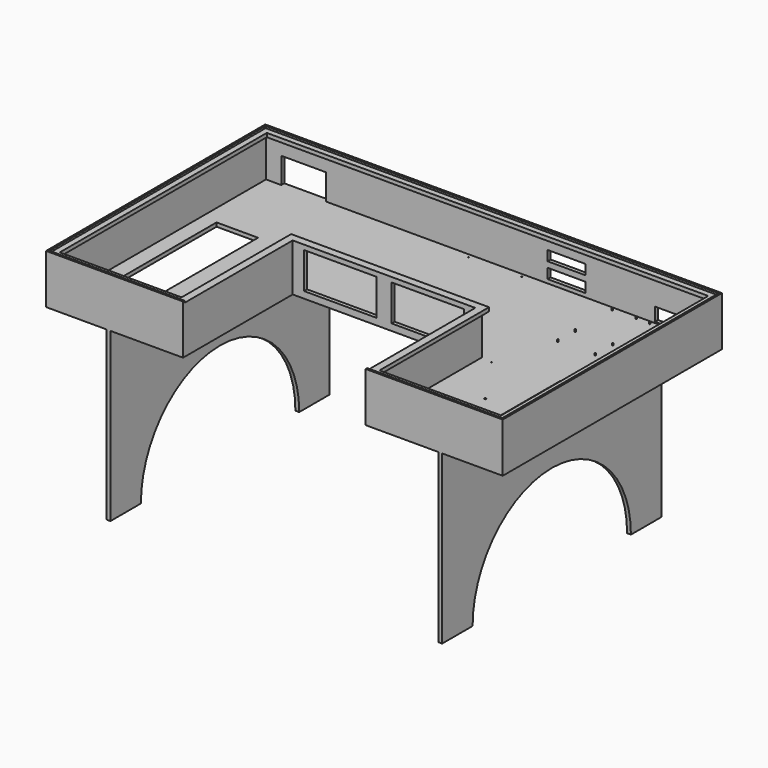
from build123d import *

# Parameters (mm, degrees)
F1_DEPTH  = 12.7
F3_DEPTH  = 152.4
F4_R      = 1.9812
F5_DEPTH  = 6.35
F6_W      = 158.75
F6_H      = 44.45
F7_DEPTH  = 25.4
F8_W      = 127
F8_H      = 33.3375
F9_DEPTH  = 25.4
F10_R     = 1.5875
F11_DEPTH = 2.54
F12_W     = 138.649558
F12_H     = 568.248292
F12_H_2   = 428.248572
F13_DEPTH = 12.701
F14_R     = 3.175
F15_DEPTH = 3.175
F16_R     = 1.5875
F17_DEPTH = 3.175
F18_W     = 150.114
F18_H     = 86.106
F19_DEPTH = 25.4
F21_DEPTH = 6.35
F23_DEPTH = 12.7
F24_W     = 241.3
F24_H     = 120.65
F25_DEPTH = 25.4
F26_W     = 12.7
F26_H     = 914.4
F27_DEPTH = 558.8
F28_W     = 1094.300884
F28_H     = 12.7
F29_DEPTH = 254
F31_DEPTH = 1321.851442
F32_W     = 622.3
F32_H     = 457.2
F33_DEPTH = 25.4


with BuildPart() as f1:
    # F0 (on Top) → F1 (new body)
    with BuildSketch(Plane.XY):
        Polygon((0, 0), (0, 914.4), (-1524, 914.4), (-1524, 0), (-1066.8, 0), (-1066.8, 457.2), (-457.2, 457.2), (-457.2, 0), align=None)
    extrude(amount=F1_DEPTH)

    # F2 (on face) → F3 (join)
    with BuildSketch(Plane.XY.offset(12.7)):
        Polygon((-457.2, 0), (0, 0), (0, 914.4), (-1524, 914.4), (-1524, 0), (-1066.8, 0), (-1066.8, 457.2), (-457.2, 457.2), align=None)
        Polygon((-12.7, 901.7), (-12.7, 12.7), (-444.5, 12.7), (-444.5, 469.9), (-1079.5, 469.9), (-1079.5, 12.7), (-1511.3, 12.7), (-1511.3, 901.7), align=None, mode=Mode.SUBTRACT)
    extrude(amount=F3_DEPTH)

    # F4 (on face) → F5 (join)
    with BuildSketch(Plane.XY.offset(12.7)):
        with Locations((-345.44, 889.4318)):
            Circle(F4_R)
        with Locations((-266.7, 889.4318)):
            Circle(F4_R)
        with Locations((-220.98, 889.4318)):
            Circle(F4_R)
        with Locations((-63.5, 866.5718)):
            Circle(F4_R)
        with Locations((-63.5, 734.4918)):
            Circle(F4_R)
        with Locations((-220.98, 734.4918)):
            Circle(F4_R)
        with Locations((-345.44, 734.4918)):
            Circle(F4_R)
        with Locations((-345.44, 662.1018)):
            Circle(F4_R)
        with Locations((-220.98, 662.1018)):
            Circle(F4_R)
        with Locations((-63.5, 662.1018)):
            Circle(F4_R)
    extrude(amount=F5_DEPTH)

    # F6 (on face) → F7 (cut)
    with BuildSketch(Plane.XZ.offset(-901.7)):
        with Locations((-134.0866, 39.0398)):
            Rectangle(F6_W, F6_H)
    extrude(amount=-F7_DEPTH, mode=Mode.SUBTRACT)

    # F8 (on face) → F9 (cut)
    with BuildSketch(Plane.XZ.offset(-901.7)):
        with Locations((-508, 42.06875)):
            Rectangle(F8_W, F8_H)
        with Locations((-508, 94.45625)):
            Rectangle(F8_W, F8_H)
    extrude(amount=-F9_DEPTH, mode=Mode.SUBTRACT)

    # F10 (on face) → F11 (cut)
    with BuildSketch(Plane.XY.offset(12.7)):
        with Locations((-647.7, 889)):
            Circle(F10_R)
        with Locations((-647.7, 685.8)):
            Circle(F10_R)
        with Locations((-825.5, 889)):
            Circle(F10_R)
        with Locations((-825.5, 685.8)):
            Circle(F10_R)
    extrude(amount=-F11_DEPTH, mode=Mode.SUBTRACT)

    # F12 (on face) → F13 (cut, through all)
    with BuildSketch(Plane.XY.offset(12.7)):
        with Locations((-1391.175221, 347.624146)):
            Rectangle(F12_W, F12_H)
        with Locations((-132.824779, 277.624286)):
            Rectangle(F12_W, F12_H_2)
    extrude(amount=-F13_DEPTH, mode=Mode.SUBTRACT)

    # F14 (on face) → F15 (cut)
    with BuildSketch(Plane.XY.offset(12.7)):
        with Locations((-1231.9, 88.9)):
            Circle(F14_R)
        with Locations((-1231.9, 292.1)):
            Circle(F14_R)
        with Locations((-292.1, 292.1)):
            Circle(F14_R)
        with Locations((-292.1, 88.9)):
            Circle(F14_R)
    extrude(amount=-F15_DEPTH, mode=Mode.SUBTRACT)

    # F16 (on face) → F17 (cut)
    with BuildSketch(Plane.XY.offset(12.7)):
        with Locations((-1116.0125, 463.55)):
            Circle(F16_R)
        with Locations((-407.9875, 463.55)):
            Circle(F16_R)
    extrude(amount=-F17_DEPTH, mode=Mode.SUBTRACT)

    # F18 (on face) → F19 (cut)
    with BuildSketch(Plane.XZ.offset(-901.7)):
        with Locations((-1385.443, 55.753)):
            Rectangle(F18_W, F18_H)
    extrude(amount=-F19_DEPTH, mode=Mode.SUBTRACT)

    # F20 (on face) → F21 (cut)
    with BuildSketch(Plane.XY.offset(165.1)):
        Polygon((-1517.65, 908.05), (-1517.65, 6.35), (-1073.15, 6.35), (-1073.15, 463.55), (-450.85, 463.55), (-450.85, 6.35), (-6.35, 6.35), (-6.35, 908.05), align=None)
        Polygon((-1079.5, 12.7), (-1511.3, 12.7), (-1511.3, 901.7), (-12.7, 901.7), (-12.7, 12.7), (-444.5, 12.7), (-444.5, 469.9), (-1079.5, 469.9), align=None, mode=Mode.SUBTRACT)
    extrude(amount=-F21_DEPTH, mode=Mode.SUBTRACT)

    # F22 (on face) → F23 (join)
    with BuildSketch(Plane.XY.offset(158.75)):
        Polygon((-1511.3, 901.7), (-1511.3, 12.7), (-1079.5, 12.7), (-1079.5, 469.9), (-444.5, 469.9), (-444.5, 12.7), (-12.7, 12.7), (-12.7, 901.7), align=None)
        Polygon((-1092.2, 25.4), (-1498.6, 25.4), (-1498.6, 889), (-25.4, 889), (-25.4, 25.4), (-431.8, 25.4), (-431.8, 482.6), (-1092.2, 482.6), align=None, mode=Mode.SUBTRACT)
    extrude(amount=-F23_DEPTH)

    # F24 (on face) → F25 (cut)
    with BuildSketch(Plane.XZ.offset(-457.2)):
        with Locations((-908.05, 82.55)):
            Rectangle(F24_W, F24_H)
        with Locations((-615.95, 82.55)):
            Rectangle(F24_W, F24_H)
    extrude(amount=-F25_DEPTH, mode=Mode.SUBTRACT)

    # F26 (on face) → F27 (join)
    with BuildSketch(Plane(origin=(0, 0, 0), x_dir=(1, 0, 0), z_dir=(0, 0, -1))):
        with Locations((-1315.500442, -457.2)):
            Rectangle(F26_W, F26_H)
        with Locations((-208.499558, -457.2)):
            Rectangle(F26_W, F26_H)
    extrude(amount=F27_DEPTH)

    # F28 (on face) → F29 (join)
    with BuildSketch(Plane(origin=(0, 0, 0), x_dir=(1, 0, 0), z_dir=(0, 0, -1))):
        with Locations((-762, -908.05)):
            Rectangle(F28_W, F28_H)
    extrude(amount=F29_DEPTH)

    # F30 (on face) → F31 (cut, through all)
    with BuildSketch(Plane(origin=(-1321.850442, 0, 0), x_dir=(0, -1, 0), z_dir=(-1, 0, 0))):
        with BuildLine():
            Line((-787.4, -558.8), (-127, -558.8))
            ThreePointArc((-127, -558.8), (-457.2, -228.6), (-787.4, -558.8))
        make_face()
    extrude(amount=-F31_DEPTH, mode=Mode.SUBTRACT)

    # F32 (on face) → F33 (cut)
    with BuildSketch(Plane.XY.offset(158.75)):
        with Locations((-762, 234.95)):
            Rectangle(F32_W, F32_H)
    extrude(amount=F33_DEPTH, mode=Mode.SUBTRACT)


solid = f1.part
